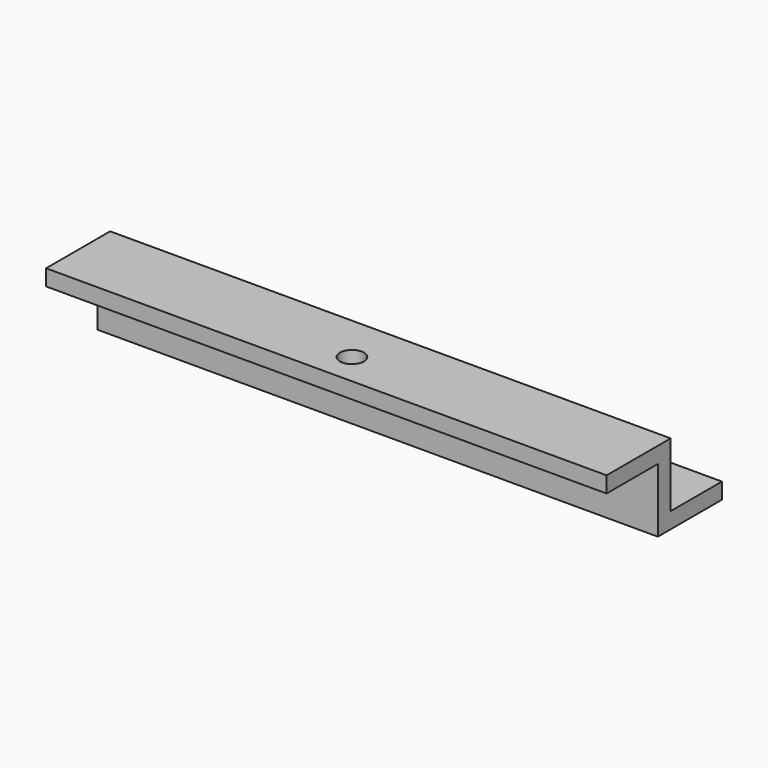
from build123d import *

# Parameters (mm, degrees)
CYLINDER_R        = 1.5
CYLINDER_DEPTH    = 4
CYLINDER002_R     = 3
CYLINDER002_DEPTH = 4
CYLINDER001_R     = 1.5
CYLINDER001_DEPTH = 4
BOX001_W          = 140
BOX001_H          = 20
BOX001_DEPTH      = 4
BOX002_W          = 140
BOX002_H          = 20
BOX002_DEPTH      = 4
BOX_W             = 140
BOX_H             = 4
BOX_DEPTH         = 20


with BuildPart() as obj1:
    # Cylinder → Cylinder (new body)
    with BuildSketch(Plane(origin=(33, 12, 0), x_dir=(1, 0, 0), z_dir=(0, 0, 1))):
        Circle(CYLINDER_R)
    extrude(amount=CYLINDER_DEPTH)


with BuildPart() as cylinder002:
    # Cylinder002 → Cylinder002 (new body)
    with BuildSketch(Plane(origin=(70, -8, 16), x_dir=(1, 0, 0), z_dir=(0, 0, 1))):
        Circle(CYLINDER002_R)
    extrude(amount=CYLINDER002_DEPTH)


with BuildPart() as obj2:
    # Cylinder001 → Cylinder001 (new body)
    with BuildSketch(Plane(origin=(107, 12, 0), x_dir=(1, 0, 0), z_dir=(0, 0, 1))):
        Circle(CYLINDER001_R)
    extrude(amount=CYLINDER001_DEPTH)

    # Fusion001: union obj1, Cylinder002
    add(obj1.part)
    add(cylinder002.part)


with BuildPart() as obj3:
    # Box001 → Box001 (new body)
    with BuildSketch(Plane.XY):
        with Locations((70, 10)):
            Rectangle(BOX001_W, BOX001_H)
    extrude(amount=BOX001_DEPTH)


with BuildPart() as obj4:
    # Box002 → Box002 (new body)
    with BuildSketch(Plane(origin=(0, -16, 16), x_dir=(1, 0, 0), z_dir=(0, 0, 1))):
        with Locations((70, 10)):
            Rectangle(BOX002_W, BOX002_H)
    extrude(amount=BOX002_DEPTH)


with BuildPart() as obj5:
    # Box → Box (new body)
    with BuildSketch(Plane.XY):
        with Locations((70, 2)):
            Rectangle(BOX_W, BOX_H)
    extrude(amount=BOX_DEPTH)

    # Fusion: union obj3, obj4
    add(obj3.part)
    add(obj4.part)

    # Cut: cut obj2
    add(obj2.part, mode=Mode.SUBTRACT)


solid = obj5.part
